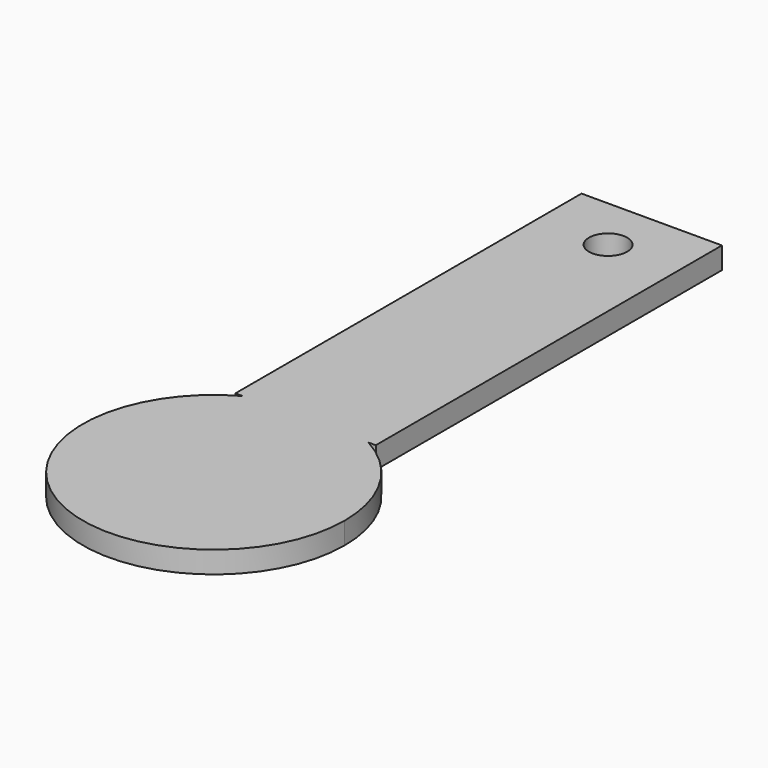
from build123d import *

# Parameters (mm, degrees)
F0_R     = 1.7519507574
F1_DEPTH = 2


with BuildPart() as f1:
    # F0 (on Top) → F1 (new body)
    with BuildSketch(Plane.XY):
        with BuildLine():
            ThreePointArc((-5.7651789179, 10.5243865401), (-6.1162837158, -10.3242953032), (12, 0))
            ThreePointArc((12, 0), (10.3242953032, 6.1162837158), (5.7651789179, 10.5243865401))
            Line((5.7651789179, 10.5243865401), (-5.7651789179, 10.5243865401))
        make_face()
        with BuildLine():
            Line((-5.7651789179, 10.5243865401), (5.7651789179, 10.5243865401))
            ThreePointArc((5.7651789179, 10.5243865401), (0, 12), (-5.7651789179, 10.5243865401))
        make_face()
        with BuildLine():
            ThreePointArc((-5.7651789179, 10.5243865401), (0, 12), (5.7651789179, 10.5243865401))
            Line((5.7651789179, 10.5243865401), (6.4349822933, 10.5243865401))
            Line((6.4349822933, 10.5243865401), (6.4349822933, 50.1826573163))
            Line((6.4349822933, 50.1826573163), (-6.4349822933, 50.1826573163))
            Line((-6.4349822933, 50.1826573163), (-6.4349822933, 10.5243865401))
            Line((-6.4349822933, 10.5243865401), (-5.7651789179, 10.5243865401))
        make_face()
        with Locations((0, 45.1821088791)):
            Circle(F0_R, mode=Mode.SUBTRACT)
    extrude(amount=F1_DEPTH)


solid = f1.part
